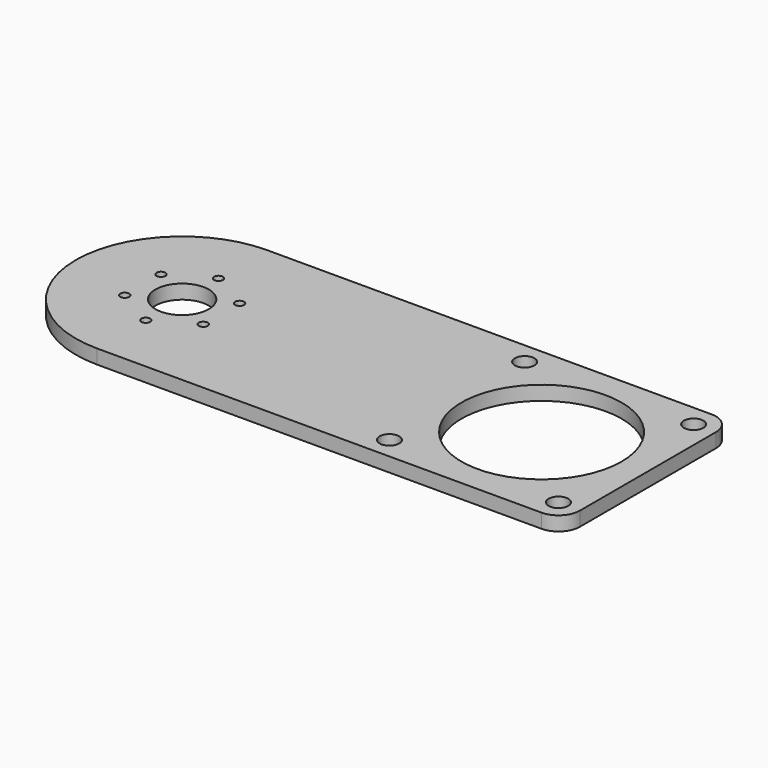
from build123d import *

# Parameters (mm, degrees)
F0_R     = 1.25
F0_R_2   = 2.75
F0_R_3   = 7.5
F0_R_4   = 22.5
F1_DEPTH = 4


with BuildPart() as f1:
    # F0 (on Top) → F1 (new body)
    with BuildSketch(Plane.XY):
        with BuildLine():
            Line((23.9, 29.9), (-101, 29.9))
            ThreePointArc((-101, 29.9), (-122.142493, 21.142493), (-130.9, 0))
            ThreePointArc((-130.9, 0), (-122.142493, -21.142493), (-101, -29.9))
            Line((-101, -29.9), (23.9, -29.9))
            ThreePointArc((23.9, -29.9), (28.142641, -28.142641), (29.9, -23.9))
            Line((29.9, -23.9), (29.9, 23.9))
            ThreePointArc((29.9, 23.9), (28.142641, 28.142641), (23.9, 29.9))
        make_face()
        with Locations((-101, -12.75)):
            Circle(F0_R, mode=Mode.SUBTRACT)
        with Locations((-112.041824, -6.375)):
            Circle(F0_R, mode=Mode.SUBTRACT)
        with Locations((-89.958176, -6.375)):
            Circle(F0_R, mode=Mode.SUBTRACT)
        with Locations((-23.75, -23.75)):
            Circle(F0_R_2, mode=Mode.SUBTRACT)
        with Locations((23.75, -23.75)):
            Circle(F0_R_2, mode=Mode.SUBTRACT)
        with Locations((-112.041824, 6.375)):
            Circle(F0_R, mode=Mode.SUBTRACT)
        with Locations((-101, 0)):
            Circle(F0_R_3, mode=Mode.SUBTRACT)
        with Locations((-101, 12.75)):
            Circle(F0_R, mode=Mode.SUBTRACT)
        with Locations((-89.958176, 6.375)):
            Circle(F0_R, mode=Mode.SUBTRACT)
        Circle(F0_R_4, mode=Mode.SUBTRACT)
        with Locations((-23.75, 23.75)):
            Circle(F0_R_2, mode=Mode.SUBTRACT)
        with Locations((23.75, 23.75)):
            Circle(F0_R_2, mode=Mode.SUBTRACT)
    extrude(amount=F1_DEPTH)


solid = f1.part
